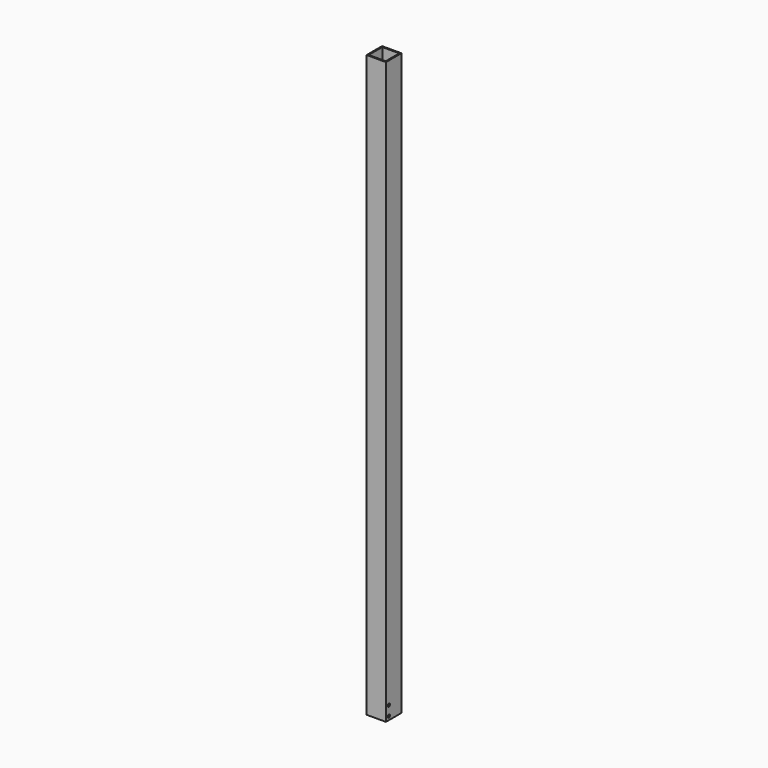
from build123d import *

# Parameters (mm, degrees)
F0_W     = 25.4
F0_H     = 25.4
F0_W_2   = 22.225
F0_H_2   = 22.225
F1_DEPTH = 762
F2_R     = 1.8288
F3_DEPTH = 25.4


with BuildPart() as f1:
    # F0 (on Top) → F1 (new body)
    with BuildSketch(Plane.XY):
        Rectangle(F0_W, F0_H)
        Rectangle(F0_W_2, F0_H_2, mode=Mode.SUBTRACT)
    extrude(amount=F1_DEPTH)

    # F2 (on face) → F3 (cut, through all)
    with BuildSketch(Plane.YZ.offset(12.7)):
        with Locations((-7.9375, 4.7625)):
            Circle(F2_R)
        with Locations((-7.9375, 17.4625)):
            Circle(F2_R)
    extrude(amount=-F3_DEPTH, mode=Mode.SUBTRACT)


solid = f1.part
